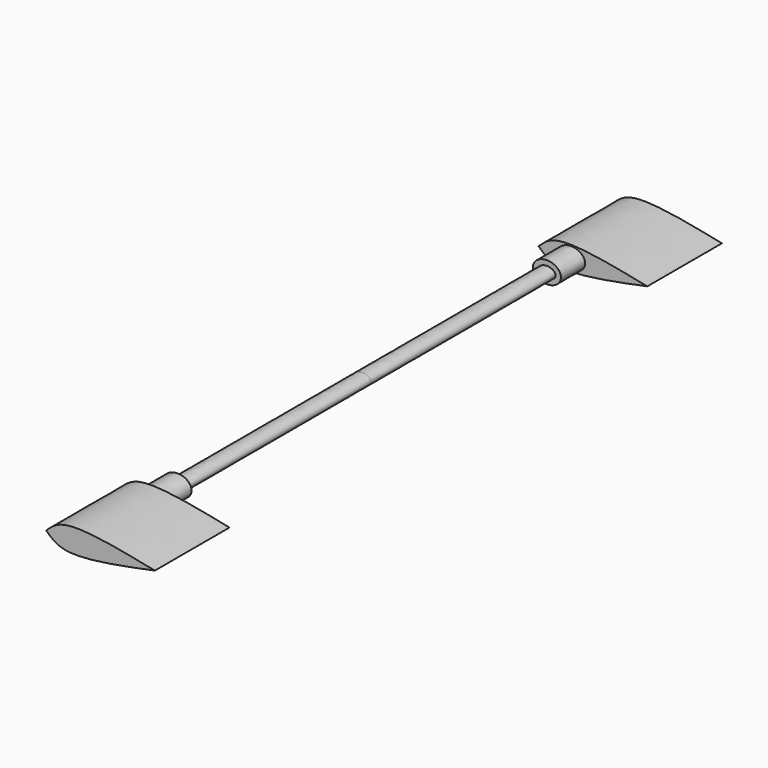
from build123d import *

# Parameters (mm, degrees)
F1_DEPTH = 20
F3_DEPTH = 6.5
F5_DEPTH = 49.5


with BuildPart() as f1:
    # F0 (on Front) → F1 (new body)
    with BuildSketch(Plane.XZ):
        with BuildLine():
            add(Edge.make_bspline(
                [(-20.9608258465, 41.4256645382), (-19.941215744, 42.3883693978), (-16.8167112057, 45.3384928772), (-5.353369783, 43.000623848), (2.3691741535, 41.4256645382)],
                knots=[0, 0, 0, 0, 0.3263269712, 1, 1, 1, 1], degree=3))
            add(Edge.make_bspline(
                [(-20.9608258465, 41.4256645382), (-19.941215744, 40.4629596785), (-16.8167112057, 37.5128361991), (-5.353369783, 39.8507052283), (2.3691741535, 41.4256645382)],
                knots=[0, 0, 0, 0, 0.3263269712, 1, 1, 1, 1], degree=3))
        make_face()
    extrude(amount=F1_DEPTH)

    # F2 (on face) → F3 (join)
    with BuildSketch(Plane.XZ.offset(20)):
        with BuildLine():
            add(Edge.make_bspline(
                [(-10.9608258465, 41.4256645382), (-10.9608258465, 45.3660801254), (-15.4608258465, 43.3958723318), (-19.9608258465, 41.4256645382), (-15.4608258465, 39.4554567445), (-10.9608258465, 37.4852489509), (-10.9608258465, 41.4256645382)],
                knots=[0, 0, 0, 2.0943951024, 2.0943951024, 4.1887902048, 4.1887902048, 6.2831853072, 6.2831853072, 6.2831853072], degree=2, weights=[1, 0.5, 1, 0.5, 1, 0.5, 1]))
        make_face()
    extrude(amount=F3_DEPTH)

    # F4 (on face) → F5 (join)
    with BuildSketch(Plane.XZ.offset(26.5)):
        with BuildLine():
            add(Edge.make_bspline(
                [(-12.1108258465, 41.4256645382), (-12.1108258465, 43.5041255072), (-14.8858258465, 42.4648950227), (-17.6608258465, 41.4256645382), (-14.8858258465, 40.3864340536), (-12.1108258465, 39.3472035691), (-12.1108258465, 41.4256645382)],
                knots=[0, 0, 0, 2.0943951024, 2.0943951024, 4.1887902048, 4.1887902048, 6.2831853072, 6.2831853072, 6.2831853072], degree=2, weights=[1, 0.5, 1, 0.5, 1, 0.5, 1]))
        make_face()
    extrude(amount=F5_DEPTH)

    # F6: F1 across face


with BuildPart() as f1_1:
    add(f1.part)
    add(f1.part.mirror(Plane(origin=(-13.9510010452, -76, 41.4256645382), x_dir=(1, 0, 0), z_dir=(0, -1, 0))))


solid = f1_1.part
